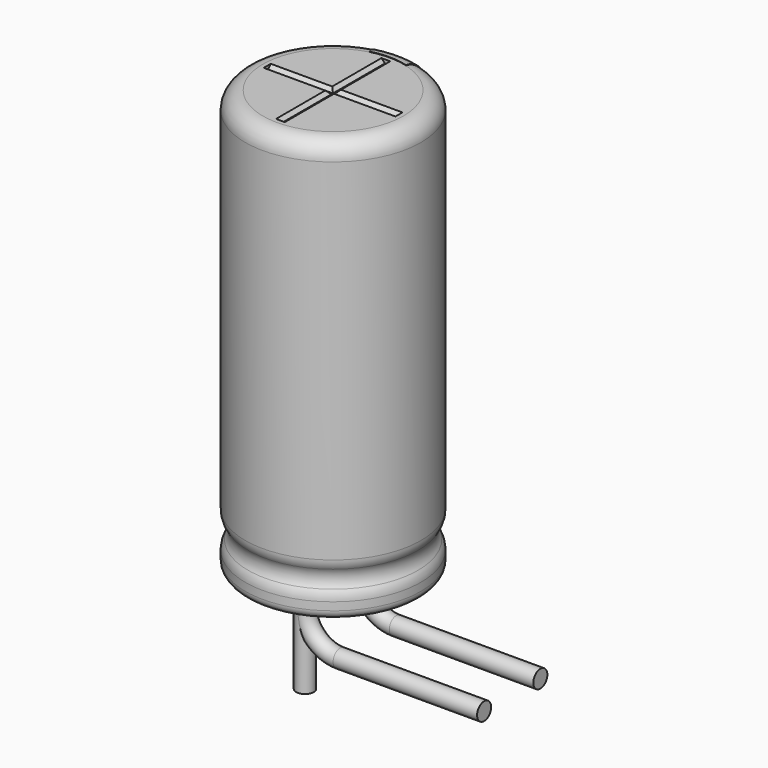
from build123d import *

# Parameters (mm, degrees)
SKETCH010_R         = 0.25
PAD002_DEPTH        = 2.6
REVOLUTION001_ANGLE = -30
SKETCH015_W         = 0.5
SKETCH015_H         = 1
POCKET002_DEPTH     = 2.511
LINEARPATTERN_COUNT = 3
LINEARPATTERN_PITCH = 4.5
SKETCH012_R         = 2
POCKET_DEPTH        = 0.5
SKETCH003_R         = 0.25
SKETCH013_R         = 2
PAD_DEPTH           = 0.5
POCKET001_DEPTH     = 1.875
POLARPATTERN_COUNT  = 3
POLARPATTERN_ANGLE  = 180


with BuildPart() as obj1:
    # Sketch010 → Pad002 (new body)
    with BuildSketch(Plane(origin=(0, 1, 0), x_dir=(1, 0, 0), z_dir=(0, 0, 1))):
        Circle(SKETCH010_R)
    extrude(amount=-PAD002_DEPTH)


with BuildPart() as obj1_1:
    # Body007 placement: moved
    add(obj1.part.moved(Location((0, -2, 0))))


with BuildPart() as polaritymarking:
    # Sketch005 → Revolution001 (revolve)
    with BuildSketch(Plane(origin=(0, 0, 0), x_dir=(-0.258819, 0.965926, 0), z_dir=(0.965926, 0.258819, 0))):
        with BuildLine():
            Line((2.01, 0.25), (2.01, 12.01))
            ThreePointArc((2.01, 12.01), (2.363553, 11.863553), (2.51, 11.51))
            Line((2.51, 11.51), (2.51, 1.523941))
            ThreePointArc((2.51, 1.523941), (2.489134, 1.381006), (2.428278, 1.25))
            ThreePointArc((2.428278, 1.25), (2.353698, 1), (2.428278, 0.75))
            ThreePointArc((2.428278, 0.75), (2.489134, 0.618994), (2.51, 0.476059))
            Line((2.51, 0.476059), (2.51, 0.25))
            ThreePointArc((2.51, 0.25), (2.26, 0), (2.01, 0.25))
        make_face()
    revolve(axis=Axis((0, 0, 0), (0, 0, 1)), revolution_arc=REVOLUTION001_ANGLE)

    # Sketch015 → Pocket002 (cut, through all)
    with BuildSketch(Plane.XZ):
        with Locations((0, 2)):
            Rectangle(SKETCH015_W, SKETCH015_H)
    pocket002 = extrude(amount=-POCKET002_DEPTH, mode=Mode.SUBTRACT)

    # LinearPattern: Pocket002 ×3
    with Locations(*[(0, 0, i * LINEARPATTERN_PITCH) for i in range(1, LINEARPATTERN_COUNT)]):
        add(pocket002, mode=Mode.SUBTRACT)


with BuildPart() as housing:
    # Sketch → Revolution (revolve)
    with BuildSketch(Plane.XZ):
        with BuildLine():
            Line((0, 12), (2, 12))
            ThreePointArc((2.5, 11.5), (2.353553, 11.853553), (2, 12))
            Line((2.5, 11.5), (2.5, 1.523941))
            ThreePointArc((2.418278, 1.25), (2.479134, 1.381006), (2.5, 1.523941))
            ThreePointArc((2.418278, 1.25), (2.343698, 1), (2.418278, 0.75))
            ThreePointArc((2.5, 0.476059), (2.479134, 0.618994), (2.418278, 0.75))
            Line((2.5, 0.476059), (2.5, 0.25))
            ThreePointArc((2.25, 0), (2.426777, 0.073223), (2.5, 0.25))
            Line((0, 0), (2.25, 0))
            Line((0, 12), (0, 0))
        make_face()
    revolve(axis=Axis((0, 0, 0), (0, 0, 1)))

    # Sketch012 → Pocket (cut)
    with BuildSketch(Plane.XY.offset(12)):
        Circle(SKETCH012_R)
    extrude(amount=-POCKET_DEPTH, mode=Mode.SUBTRACT)


with BuildPart() as obj2:
    # AdditivePipe: sweep along a path in Sketch004
    with BuildLine(Plane.XZ) as additivepipe_path:
        Line((0, 0), (0, -0.5))
        ThreePointArc((0, -0.5), (0.292893, -1.207107), (1, -1.5))
        Line((1, -1.5), (5.1, -1.5))
    # Sketch003 (on ShapeBinder) → AdditivePipe (sweep)
    with BuildSketch(Plane(origin=(0, 0, 0), x_dir=(1, 0, 0), z_dir=(0, 0, -1))):
        with Locations((0, 1)):
            Circle(SKETCH003_R)
    sweep(path=additivepipe_path.line)


with BuildPart() as obj3:
    # Body003 base: copy of obj2
    add(obj2.part)


with BuildPart() as obj3_1:
    # Body003 placement: moved
    add(obj3.part.moved(Location((0, 2, 0))))


with BuildPart() as fusion:
    # Sketch013 (on ShapeBinder) → Pad (new body)
    with BuildSketch(Plane.XY.offset(11.5)):
        Circle(SKETCH013_R)
    extrude(amount=PAD_DEPTH)

    # Sketch014 → Pocket001 (cut, symmetric)
    with BuildSketch(Plane.XZ):
        Polygon((-0.125, 12), (0.125, 12), (0.025, 11.9), (-0.025, 11.9), align=None)
    pocket001 = extrude(amount=POCKET001_DEPTH, both=True, mode=Mode.SUBTRACT)

    # PolarPattern: Pocket001 ×3 about axis
    polarpattern_axis = Axis((0, 0, 0), (0, 0, 1))
    for i in range(1, POLARPATTERN_COUNT):
        add(pocket001.rotate(polarpattern_axis, i * POLARPATTERN_ANGLE / (POLARPATTERN_COUNT - 1)), mode=Mode.SUBTRACT)

    # Fusion: union PolarityMarking, Housing, obj3, obj2
    add(polaritymarking.part)
    add(housing.part)
    add(obj3_1.part)
    add(obj2.part)


solid = Compound([obj1_1.part, fusion.part])
